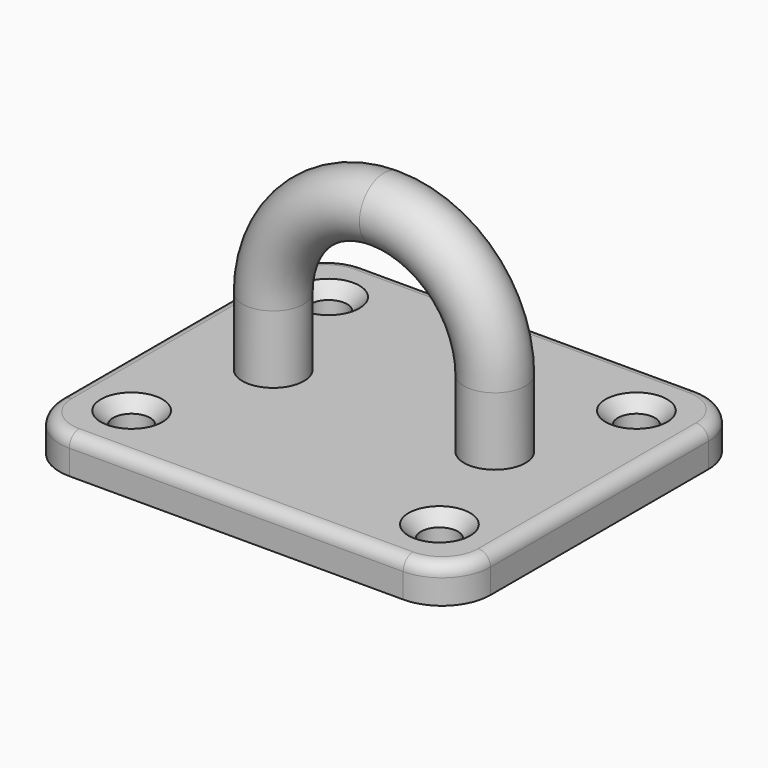
from build123d import *

# Parameters (mm, degrees)
SKETCH001_R  = 1.5
PAD_DEPTH    = 3
SKETCH002_R  = 2.5
CHAMFER_SIZE = 1
FILLET_R     = 1


with BuildPart() as part:
    # Sketch001 → Pad (new body)
    with BuildSketch(Plane.XY):
        with BuildLine():
            Line((0, 15), (0, -15))
            Line((0, -15), (-13.56066, -15))
            ThreePointArc((-17.5, -11.06066), (-16.346194, -13.846194), (-13.56066, -15))
            Line((-17.5, -11.06066), (-17.5, 11.06066))
            ThreePointArc((-13.56066, 15), (-16.346194, 13.846194), (-17.5, 11.06066))
            Line((-13.56066, 15), (0, 15))
        make_face()
        with Locations((-12.5, -10)):
            Circle(SKETCH001_R, mode=Mode.SUBTRACT)
        with Locations((-12.5, 10)):
            Circle(SKETCH001_R, mode=Mode.SUBTRACT)
    pad = extrude(amount=PAD_DEPTH)

    # AdditivePipe: sweep along a path in Sketch
    with BuildLine(Plane.XZ) as additivepipe_path:
        Line((-6.5, 3), (-6.5, 8.5))
        ThreePointArc((-6.5, 8.5), (-4.596194, 13.096194), (0, 15))
    # Sketch002 (on Face10 of Pad) → AdditivePipe (sweep)
    with BuildSketch(Plane.XY.offset(3)):
        with Locations((-9, 0)):
            Circle(SKETCH002_R)
    additivepipe = sweep(path=additivepipe_path.line)

    # Mirrored: Pad, AdditivePipe across Sketch001 V_Axis
    add(pad.mirror(Plane(origin=(0, 0, 0), x_dir=(0, 0, 1), z_dir=(1, 0, 0))))
    add(additivepipe.mirror(Plane(origin=(0, 0, 0), x_dir=(0, 0, 1), z_dir=(1, 0, 0))))

    # Chamfer
    chamfer_edges = [part.edges().sort_by_distance(p)[0] for p in [
        (14, 10, 3),
        (-14, 10, 3),
        (-14, -10, 3),
        (14, -10, 3),
    ]]
    chamfer(chamfer_edges, length=CHAMFER_SIZE)

    # Fillet
    fillet_edges = [part.edges().sort_by_distance(p)[0] for p in [
        (-6.78033, -15, 3),
    ]]
    fillet(fillet_edges, radius=FILLET_R)


solid = part.part
